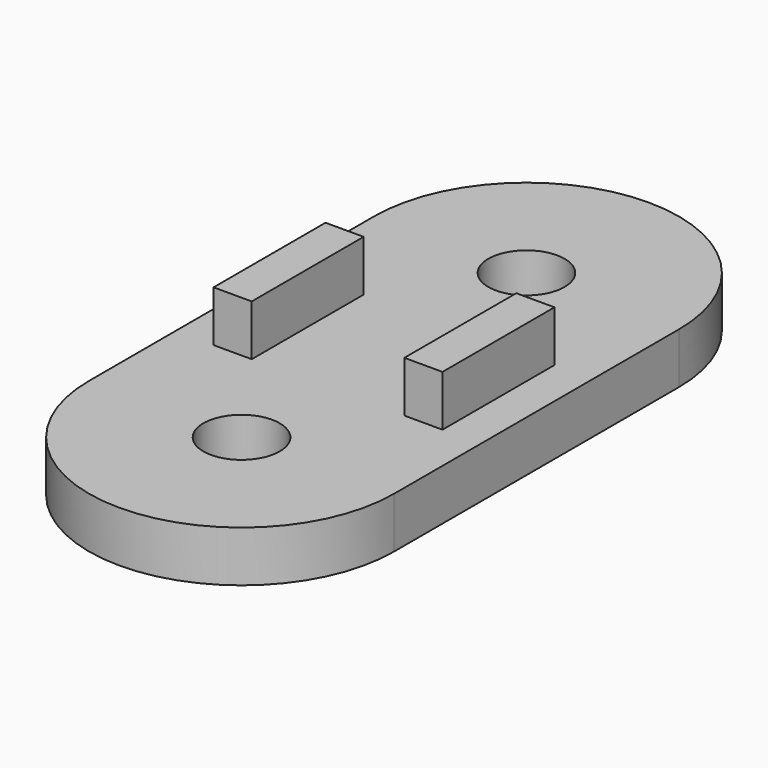
from build123d import *

# Parameters (mm, degrees)
SKETCH_R     = 3
PAD_DEPTH    = 4
SKETCH001_W  = 3
SKETCH001_H  = 11
PAD001_DEPTH = 8


with BuildPart() as part:
    # Sketch → Pad (new body)
    with BuildSketch(Plane.XY):
        with BuildLine():
            ThreePointArc((12, 14), (0, 26), (-12, 14))
            Line((-12, 14), (-12, -14))
            ThreePointArc((-12, -14), (0, -26), (12, -14))
            Line((12, -14), (12, 14))
        make_face()
        with Locations((0, 14)):
            Circle(SKETCH_R, mode=Mode.SUBTRACT)
        with Locations((0, -14)):
            Circle(SKETCH_R, mode=Mode.SUBTRACT)
    extrude(amount=PAD_DEPTH)

    # Sketch001 → Pad001 (join)
    with BuildSketch(Plane.XY):
        with Locations((-7.5, 0)):
            Rectangle(SKETCH001_W, SKETCH001_H)
        with Locations((7.5, 0)):
            Rectangle(SKETCH001_W, SKETCH001_H)
    extrude(amount=PAD001_DEPTH)


solid = part.part
